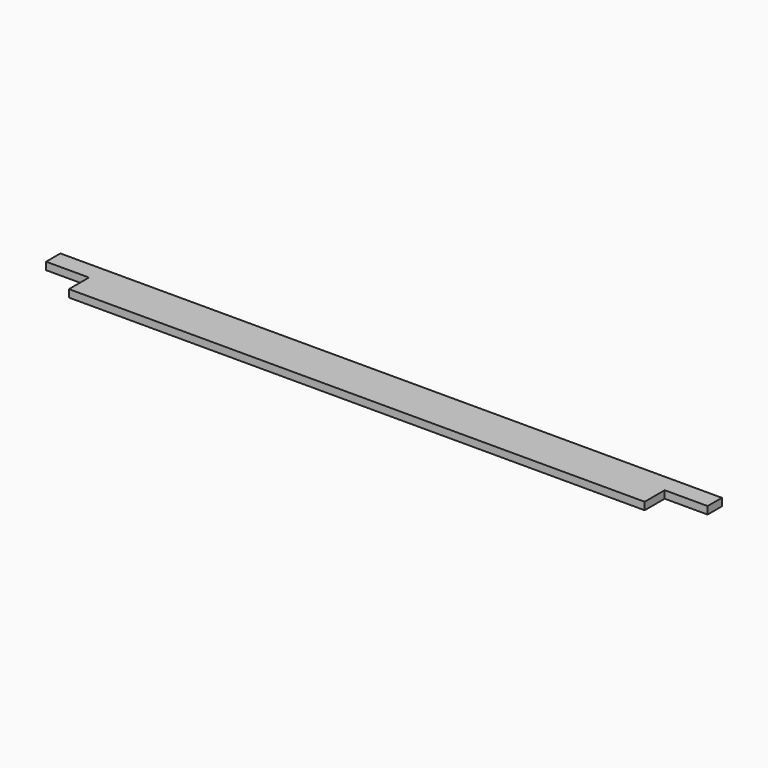
from build123d import *

# Parameters (mm, degrees)
F0_W     = 120
F0_H     = 21
F1_DEPTH = 1850
F2_W     = 120
F2_H     = 70
F3_DEPTH = 25


with BuildPart() as f1:
    # F0 (on Right) → F1 (new body)
    with BuildSketch(Plane.YZ):
        Rectangle(F0_W, F0_H)
    extrude(amount=F1_DEPTH)

    # F2 (on face) → F3 (cut)
    with BuildSketch(Plane.XY.offset(10.5)):
        with Locations((1790, -25)):
            Rectangle(F2_W, F2_H)
        with Locations((60, -25)):
            Rectangle(F2_W, F2_H)
    extrude(amount=-F3_DEPTH, mode=Mode.SUBTRACT)


solid = f1.part
